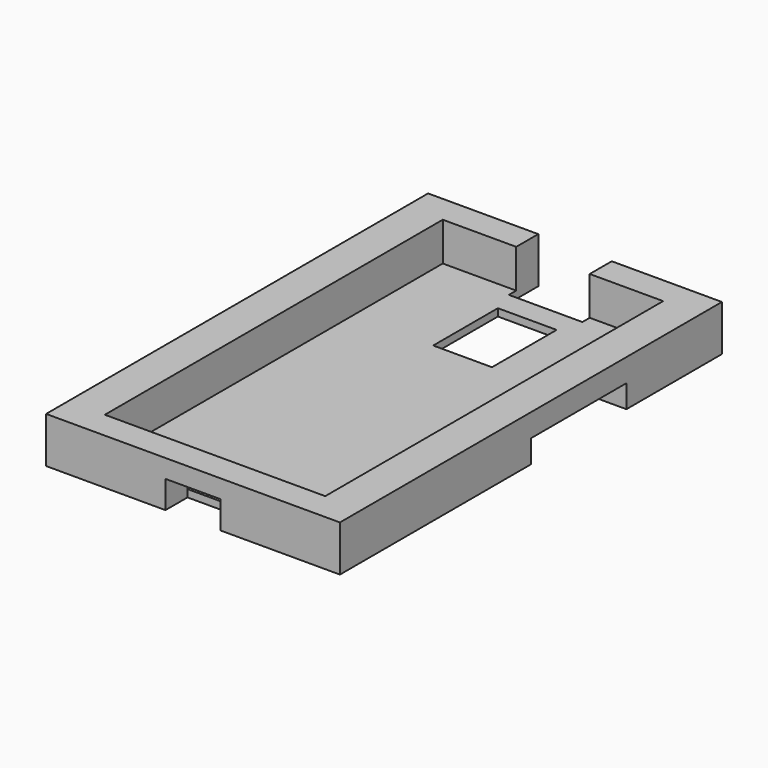
from build123d import *

# Parameters (mm, degrees)
F0_W      = 12.7
F0_H      = 9.525
F0_W_2    = 76.2
F0_H_2    = 146.05
F1_DEPTH  = 15.875
F2_DEPTH  = 2.54
F3_W      = 19.05
F3_H      = 9.525
F4_DEPTH  = 9.525
F5_W      = 41.275
F5_H      = 7.9375
F6_DEPTH  = 12.7
F7_W      = 20.32
F7_H      = 27.94
F8_DEPTH  = 25.4
F9_W      = 25.4
F9_H      = 15.875
F10_DEPTH = 12.7


with BuildPart() as f1:
    # F0 (on Top) → F1 (new body)
    with BuildSketch(Plane.XY):
        with Locations((44.45, 77.7875)):
            Rectangle(F0_W, F0_H)
        with Locations((-44.45, 77.7875)):
            Rectangle(F0_W, F0_H)
        with Locations((44.45, -77.7875)):
            Rectangle(F0_W, F0_H)
        with Locations((0, -77.7875)):
            Rectangle(F0_W_2, F0_H)
        with Locations((44.45, 0)):
            Rectangle(F0_W, F0_H_2)
        with Locations((-44.45, -77.7875)):
            Rectangle(F0_W, F0_H)
        with Locations((-44.45, 0)):
            Rectangle(F0_W, F0_H_2)
        with Locations((0, 77.7875)):
            Rectangle(F0_W_2, F0_H)
    extrude(amount=F1_DEPTH)

    # F0 (on Top) → F2 (join)
    with BuildSketch(Plane.XY):
        Rectangle(F0_W_2, F0_H_2)
    extrude(amount=F2_DEPTH)

    # F3 (on face) → F4 (cut)
    with BuildSketch(Plane.XZ.offset(82.55)):
        with Locations((0, 4.7625)):
            Rectangle(F3_W, F3_H)
    extrude(amount=-F4_DEPTH, mode=Mode.SUBTRACT)

    # F5 (on face) → F6 (cut)
    with BuildSketch(Plane.YZ.offset(50.8)):
        with Locations((20.6375, 3.96875)):
            Rectangle(F5_W, F5_H)
    extrude(amount=-F6_DEPTH, mode=Mode.SUBTRACT)

    # F7 (on face) → F8 (cut)
    with BuildSketch(Plane(origin=(0, 0, 0), x_dir=(1, 0, 0), z_dir=(0, 0, -1))):
        with Locations((0, -47.9425)):
            Rectangle(F7_W, F7_H)
    extrude(amount=-F8_DEPTH, mode=Mode.SUBTRACT)

    # F9 (on face) → F10 (cut)
    with BuildSketch(Plane(origin=(0, 82.55, 0), x_dir=(-1, 0, 0), z_dir=(0, 1, 0))):
        with Locations((0, 7.9375)):
            Rectangle(F9_W, F9_H)
    extrude(amount=-F10_DEPTH, mode=Mode.SUBTRACT)


solid = f1.part
